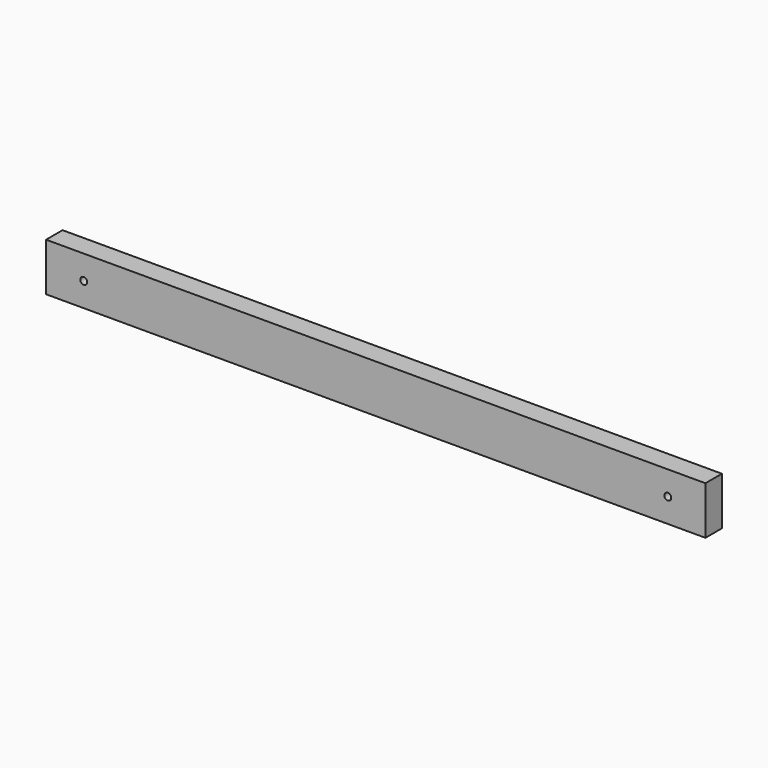
from build123d import *

# Parameters (mm, degrees)
F0_W     = 1219.2
F0_H     = 88.9
F1_DEPTH = 38.1
F2_D     = 12.7
F2_DEPTH = 609.6


with BuildPart() as f1:
    # F0 (on Front) → F1 (new body)
    with BuildSketch(Plane.XZ):
        Rectangle(F0_W, F0_H)
    extrude(amount=-F1_DEPTH)

    # F2
    with Locations(Plane.XZ):
        with Locations((-540.039235, 0), (540.039235, 0)):
            Hole(F2_D / 2, depth=F2_DEPTH)


solid = f1.part
